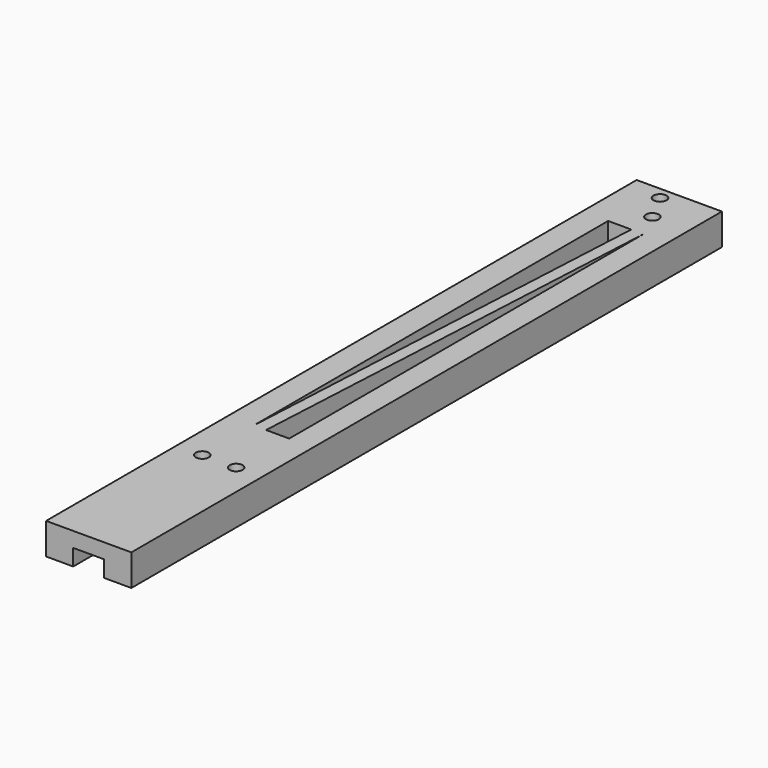
from build123d import *

# Parameters (mm, degrees)
PAD_DEPTH            = 3
PAD001_DEPTH         = 4.65
SKETCH002_R          = 1.58
POCKET_DEPTH         = 0.001
POCKET_DEPTH_BACK    = -7.651
POCKET001_DEPTH      = 0.001
POCKET001_DEPTH_BACK = -7.651
POCKET002_DEPTH      = 4
SKETCH005_R          = 1.58
POCKET003_DEPTH      = 0.001
POCKET003_DEPTH_BACK = -7.651


with BuildPart() as part:
    # Sketch → Pad (new body)
    with BuildSketch(Plane.XY):
        with BuildLine():
            ThreePointArc((-3.95, 3.95), (0, 0), (3.95, 3.95))
            Line((3.95, 13.95), (3.95, 3.95))
            Line((3.95, 13.95), (8.95, 13.95))
            Line((8.95, 13.95), (8.95, 0))
            Line((8.95, 0), (8.95, -166.05))
            Line((8.95, -166.05), (-11.8411, -166.05))
            Line((-11.8411, -166.05), (-11.8411, 0))
            Line((-11.8411, 13.95), (-11.8411, 0))
            Line((-6.8411, 13.95), (-11.8411, 13.95))
            Line((-6.8411, 13.95), (-6.8411, 9.04))
            Line((-6.8411, 9.04), (-3.95, 3.95))
        make_face()
    extrude(amount=PAD_DEPTH)

    # Sketch001 → Pad001 (join)
    with BuildSketch(Plane.XY.offset(3)):
        Polygon((-11.8411, 0), (-11.8411, 13.95), (0, 13.95), (8.95, 13.95), (8.95, 0), (8.95, -166.05), (-11.8411, -166.05), align=None)
    extrude(amount=PAD001_DEPTH)

    # Sketch002 → Pocket (cut, two sides)
    with BuildSketch(Plane(origin=(0, 0.2, 0), x_dir=(1, 0, 0), z_dir=(0, 0, 1))) as pocket_sk:
        with Locations((0, 3.75)):
            Circle(SKETCH002_R)
        with Locations((-3.75, 10.75)):
            Circle(SKETCH002_R)
    extrude(amount=-POCKET_DEPTH, mode=Mode.SUBTRACT)
    extrude(pocket_sk.sketch, amount=-POCKET_DEPTH_BACK, mode=Mode.SUBTRACT)

    # Sketch003 → Pocket001 (cut, two sides)
    with BuildSketch(Plane.XY) as pocket001_sk:
        Polygon((0.11, -2.63), (-5.54, -2.63), (-5.54, -110.63), align=None)
        Polygon((-2.54, -110.63), (3.11, -110.63), (3.11, -2.63), align=None)
    extrude(amount=-POCKET001_DEPTH, mode=Mode.SUBTRACT)
    extrude(pocket001_sk.sketch, amount=-POCKET001_DEPTH_BACK, mode=Mode.SUBTRACT)

    # Sketch004 → Pocket002 (cut)
    with BuildSketch(Plane.XY):
        with BuildLine():
            Line((-5.22555, -130.05), (-5.22555, -166.05))
            Line((-5.22555, -166.05), (2.33445, -166.05))
            Line((2.33445, -166.05), (2.33445, -130.05))
            Line((2.33445, -130.05), (2.67, -130.05))
            ThreePointArc((2.67, -130.05), (6.45, -126.27), (2.67, -122.49))
            Line((-5.5611, -122.49), (2.67, -122.49))
            ThreePointArc((-5.5611, -122.49), (-9.3411, -126.27), (-5.5611, -130.05))
            Line((-5.22555, -130.05), (-5.5611, -130.05))
        make_face()
    extrude(amount=POCKET002_DEPTH, mode=Mode.SUBTRACT)

    # Sketch005 → Pocket003 (cut, two sides)
    with BuildSketch(Plane.XY) as pocket003_sk:
        with Locations((-5.5611, -126.27)):
            Circle(SKETCH005_R)
        with Locations((2.67, -126.27)):
            Circle(SKETCH005_R)
    extrude(amount=-POCKET003_DEPTH, mode=Mode.SUBTRACT)
    extrude(pocket003_sk.sketch, amount=-POCKET003_DEPTH_BACK, mode=Mode.SUBTRACT)


solid = part.part
